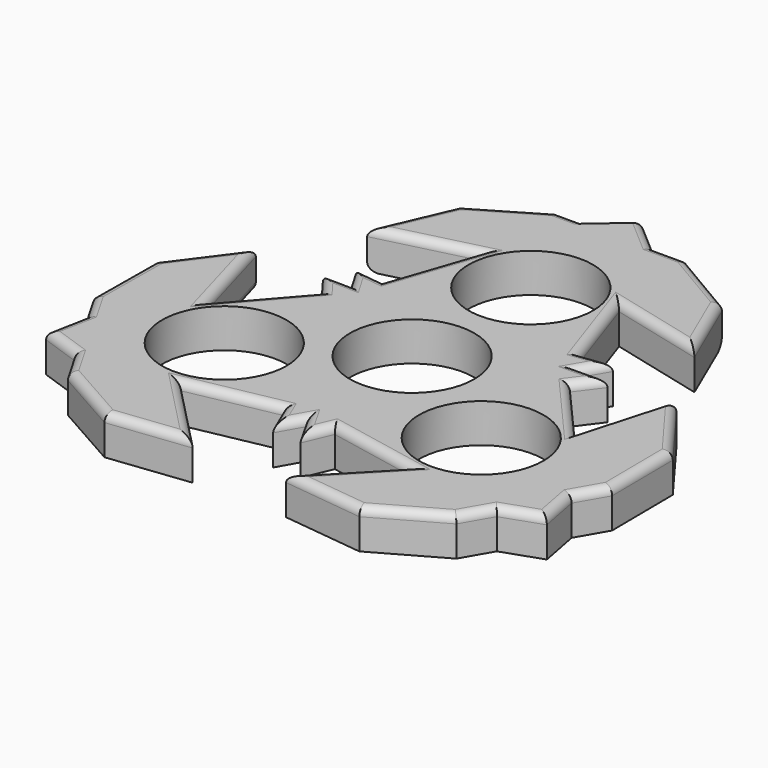
from build123d import *

# Parameters (mm, degrees)
F0_R     = 11.2
F1_DEPTH = 7
F2_R     = 1.5


with BuildPart() as f1:
    # F0 (on Top) → F1 (new body)
    with BuildSketch(Plane.XY):
        Polygon((-29.469332, 26.720898), (-12.492945, 30.983096), (-17.749237, 15.576357), (-23.179901, 16.234838), (-20.629681, 11.910552), (-25.649733, 11.956964), (-22.364139, 7.583111), (-33.07862, -4.67234), (-37.875643, 12.160741), (-46.611124, 0.417446), (-46.738951, -13.408707), (-43.685134, -18.698073), (-45.091842, -26.033787), (-38.035573, -28.483399), (-34.981756, -33.772766), (-22.944043, -40.57514), (-8.406311, -38.881639), (-20.585675, -26.310756), (-4.614902, -23.159468), (-2.469832, -28.191802), (0, -23.821104), (2.469832, -28.191802), (4.614902, -23.159468), (20.585675, -26.310756), (8.406311, -38.881639), (22.944043, -40.57514), (34.981756, -33.772766), (38.035573, -28.483399), (45.091842, -26.033787), (43.685134, -18.698073), (46.738951, -13.408707), (46.611124, 0.417446), (37.875643, 12.160741), (33.07862, -4.67234), (22.364139, 7.583111), (25.649733, 11.956964), (20.629681, 11.910552), (23.179901, 16.234838), (17.749237, 15.576357), (12.492945, 30.983096), (29.469332, 26.720898), (23.66708, 40.157694), (11.757195, 47.181472), (5.649561, 47.181472), (0, 52.067574), (-5.649561, 47.181472), (-11.757195, 47.181472), (-23.66708, 40.157694), align=None)
        with Locations((-23.140977, -13.360449)):
            Circle(F0_R, mode=Mode.SUBTRACT)
        with Locations((23.140977, -13.360449)):
            Circle(F0_R, mode=Mode.SUBTRACT)
        Circle(F0_R, mode=Mode.SUBTRACT)
        with Locations((0, 26.720898)):
            Circle(F0_R, mode=Mode.SUBTRACT)
    extrude(amount=F1_DEPTH)

    # F2
    f2_edges = [f1.edges().sort_by_distance(p)[0] for p in [
        (20.981138, 28.851997, 7),
        (26.568206, 33.439296, 7),
        (17.712138, 43.669583, 7),
        (8.703378, 47.181472, 7),
        (2.824781, 49.624523, 7),
        (-8.703378, 47.181472, 7),
        (-17.712138, 43.669583, 7),
        (-26.568206, 33.439296, 7),
        (-20.981138, 28.851997, 7),
        (-15.121091, 23.279726, 7),
        (-20.464569, 15.905597, 7),
        (-27.72138, 1.455386, 7),
        (-23.139707, 11.933758, 7),
        (-21.904791, 14.072695, 7),
        (-24.006936, 9.770038, 7),
        (-35.477131, 3.7442, 7),
        (-42.243383, 6.289093, 7),
        (-46.675037, -6.49563, 7),
        (-45.212043, -16.05339, 7),
        (-44.388488, -22.36593, 7),
        (-41.563707, -27.258593, 7),
        (-28.9629, -37.173953, 7),
        (-15.675177, -39.72839, 7),
        (-36.508664, -31.128083, 7),
        (-14.495993, -32.596197, 7),
        (-12.600289, -24.735112, 7),
        (-3.542367, -25.675635, 7),
        (12.600289, -24.735112, 7),
        (14.495993, -32.596197, 7),
        (3.542367, -25.675635, 7),
        (15.675177, -39.72839, 7),
        (-1.234916, -26.006453, 7),
        (1.234916, -26.006453, 7),
        (28.9629, -37.173953, 7),
        (36.508664, -31.128083, 7),
        (41.563707, -27.258593, 7),
        (44.388488, -22.36593, 7),
        (45.212043, -16.05339, 7),
        (46.675037, -6.49563, 7),
        (42.243383, 6.289093, 7),
        (27.72138, 1.455386, 7),
        (24.006936, 9.770038, 7),
        (20.464569, 15.905597, 7),
        (15.121091, 23.279726, 7),
        (23.139707, 11.933758, 7),
        (21.904791, 14.072695, 7),
        (17.712138, 43.669583, 0),
        (8.703378, 47.181472, 0),
        (2.824781, 49.624523, 0),
        (-8.703378, 47.181472, 0),
        (-17.712138, 43.669583, 0),
        (-2.824781, 49.624523, 0),
        (-26.568206, 33.439296, 0),
        (-15.121091, 23.279726, 0),
        (-20.464569, 15.905597, 0),
        (-35.477131, 3.7442, 0),
    ]]
    fillet(f2_edges, radius=F2_R)


solid = f1.part
